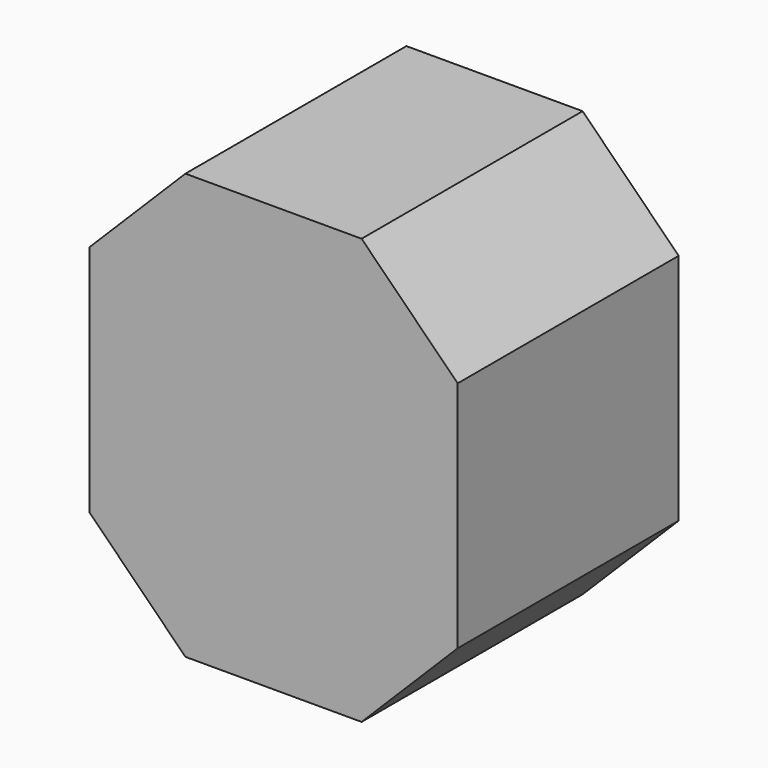
from build123d import *

# Parameters (mm, degrees)
BOX_W            = 4
BOX_H            = 4
BOX_DEPTH        = 10
EXTRUDE003_DEPTH = 3


with BuildPart() as box:
    # Box → Box (new body)
    with BuildSketch(Plane(origin=(-2, 2.8, 0), x_dir=(1, 0, 0), z_dir=(0, 0, 1))):
        with Locations((2, 2)):
            Rectangle(BOX_W, BOX_H)
    extrude(amount=BOX_DEPTH)


with BuildPart() as common:
    # Sketch002 → Extrude003 (new body)
    with BuildSketch(Plane.XZ):
        Polygon((2.309699, 1.35299), (2.309699, 3.266407), (0.956709, 4.619398), (-0.956709, 4.619398), (-2.309699, 3.266407), (-2.309699, 1.35299), (-0.956709, 0), (0.956709, 0), align=None)
    extrude(amount=-EXTRUDE003_DEPTH)


with BuildPart() as common_1:
    # Extrude003 placement: moved
    add(common.part.moved(Location((0, 3, 0))))

    # Common: intersect Box
    add(box.part, mode=Mode.INTERSECT)


solid = common_1.part
